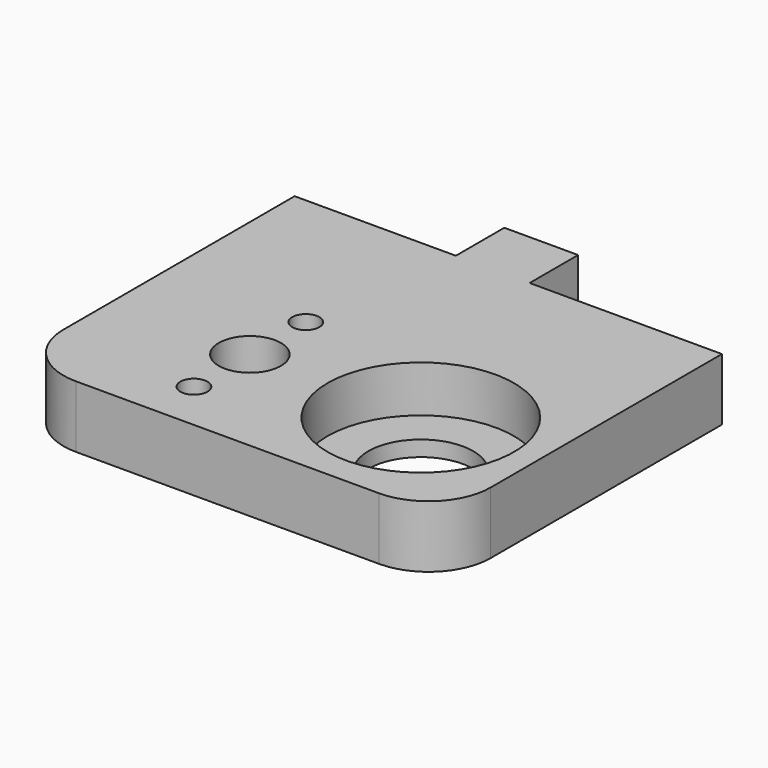
from build123d import *

# Parameters (mm, degrees)
F0_R     = 12
F0_R_2   = 1.75
F0_R_3   = 4
F1_DEPTH = 8
F0_R_4   = 6.75
F2_DEPTH = 2
F3_R     = 8
F4_R     = 1.5
F5_DEPTH = 10
F6_ANGLE = 180


with BuildPart() as f1:
    # F0 (on Top) → F1 (new body)
    with BuildSketch(Plane.XY):
        Polygon((30.25, 0), (20.75, 0), (20.75, -7.8), (0, -7.8), (-4, -7.8), (-4, -53), (0, -53), (51, -53), (51, -7.8), (30.25, -7.8), align=None)
        with Locations((11, -37.5)):
            Circle(F0_R, mode=Mode.SUBTRACT)
        with Locations((33, -46.5)):
            Circle(F0_R_2, mode=Mode.SUBTRACT)
        with Locations((33, -37.5)):
            Circle(F0_R_3, mode=Mode.SUBTRACT)
        with Locations((33, -28.5)):
            Circle(F0_R_2, mode=Mode.SUBTRACT)
    extrude(amount=-F1_DEPTH)

    # F0 (on Top) → F2 (join)
    with BuildSketch(Plane.XY):
        with Locations((11, -37.5)):
            Circle(F0_R)
        with Locations((11, -37.5)):
            Circle(F0_R_4, mode=Mode.SUBTRACT)
    extrude(amount=-F2_DEPTH)

    # F3
    f3_edges = [f1.edges().sort_by_distance(p)[0] for p in [
        (-4, -53, -4),
        (51, -53, -4),
    ]]
    fillet(f3_edges, radius=F3_R)

    # F4 (on face) → F5 (cut)
    with BuildSketch(Plane(origin=(0, -7.8, 0), x_dir=(-1, 0, 0), z_dir=(0, 1, 0))):
        with Locations((-41.25, -4)):
            Circle(F4_R)
        with Locations((-9.75, -4)):
            Circle(F4_R)
    extrude(amount=-F5_DEPTH, mode=Mode.SUBTRACT)


with BuildPart() as f1_1:
    # F6: moved
    add(f1.part.rotate(Axis((-4, -26.4, -8), (0, 1, 0)), F6_ANGLE))


solid = f1_1.part
